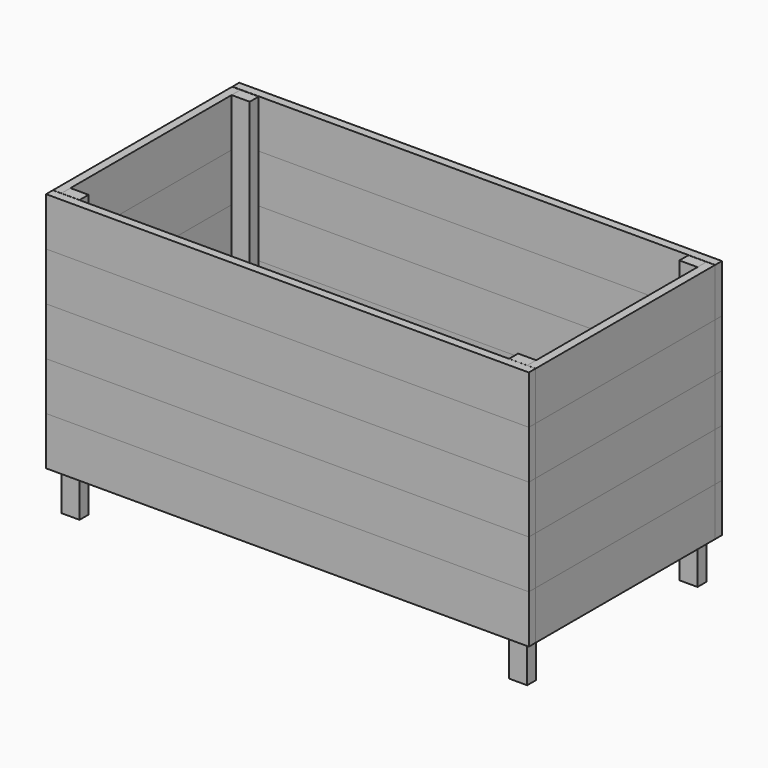
from build123d import *

# Parameters (mm, degrees)
F0_W      = 1200
F0_H      = 21
F1_DEPTH  = 120
F0_W_2    = 21
F0_H_2    = 556.7881069728
F0_H_3    = 557.1984168637
F22_W     = 45
F22_H     = 28
F23_DEPTH = 600
F24_DEPTH = 100
F26_START = 21
F25_W     = 44.6634292603
F25_H     = 500.1734569669
F26_DEPTH = 21
F25_W_2   = 44.8862910271
F25_H_2   = 500.9276699275
F27_W     = 1158
F27_H     = 120
F28_DEPTH = 21


with BuildPart() as f1:
    # F0 (on Top) → F1 (new body)
    with BuildSketch(Plane.XY):
        with Locations((0, -10.5)):
            Rectangle(F0_W, F0_H)
    extrude(amount=F1_DEPTH)


with BuildPart() as f1b:
    # F0 (on Top) → F1, piece 2 (new body)
    with BuildSketch(Plane.XY):
        with Locations((0, 568.5)):
            Rectangle(F0_W, F0_H)
    extrude(amount=F1_DEPTH)


with BuildPart() as f1c:
    # F0 (on Top) → F1, piece 3 (new body)
    with BuildSketch(Plane.XY):
        with Locations((-589.5, 278.8132924761)):
            Rectangle(F0_W_2, F0_H_2)
    extrude(amount=F1_DEPTH)


with BuildPart() as f1d:
    # F0 (on Top) → F1, piece 4 (new body)
    with BuildSketch(Plane.XY):
        with Locations((589.5, 278.7744940943)):
            Rectangle(F0_W_2, F0_H_3)
    extrude(amount=F1_DEPTH)


with BuildPart() as f2_1:
    # F2: copy of F1
    add(f1.part.moved(Location((0, 0, 120))))


with BuildPart() as f3_1:
    # F3: copy of F2_1
    add(f2_1.part.moved(Location((0, 0, 120))))


with BuildPart() as f4_1:
    # F4: copy of F3_1
    add(f3_1.part.moved(Location((0, 0, 120))))


with BuildPart() as f5_1:
    # F5: copy of F3_1
    add(f3_1.part.moved(Location((0, 0, 120))))


with BuildPart() as f8_1:
    # F8: copy of F3_1
    add(f3_1.part.moved(Location((0, 0, 120))))


with BuildPart() as f9_1:
    # F9: copy of F8_1
    add(f8_1.part.moved(Location((0, 0, 120))))


with BuildPart() as f10_1:
    # F10: copy of F1b
    add(f1b.part.moved(Location((0, 0, 120))))


with BuildPart() as f11_1:
    # F11: copy of F10_1
    add(f10_1.part.moved(Location((0, 0, 120))))


with BuildPart() as f12_1:
    # F12: copy of F11_1
    add(f11_1.part.moved(Location((0, 0, 120))))


with BuildPart() as f13_1:
    # F13: copy of F12_1
    add(f12_1.part.moved(Location((0, 0, 120))))


with BuildPart() as f14_1:
    # F14: copy of F1c
    add(f1c.part.moved(Location((0, 0, 120))))


with BuildPart() as f15_1:
    # F15: copy of F14_1
    add(f14_1.part.moved(Location((0, 0, 120))))


with BuildPart() as f16_1:
    # F16: copy of F15_1
    add(f15_1.part.moved(Location((0, 0, 120))))


with BuildPart() as f17_1:
    # F17: copy of F16_1
    add(f16_1.part.moved(Location((0, 0, 120))))


with BuildPart() as f18_1:
    # F18: copy of F1d
    add(f1d.part.moved(Location((0, 0, 120))))


with BuildPart() as f19_1:
    # F19: copy of F18_1
    add(f18_1.part.moved(Location((0, 0, 120))))


with BuildPart() as f20_1:
    # F20: copy of F19_1
    add(f19_1.part.moved(Location((0, 0, 120))))


with BuildPart() as f21_1:
    # F21: copy of F20_1
    add(f20_1.part.moved(Location((0, 0, 120))))


with BuildPart() as f23:
    # F22 (on Top) → F23 (new body)
    with BuildSketch(Plane.XY):
        with Locations((-556.5, 543.2073459625)):
            Rectangle(F22_W, F22_H)
    extrude(amount=F23_DEPTH)


with BuildPart() as f23b:
    # F22 (on Top) → F23, piece 2 (new body)
    with BuildSketch(Plane.XY):
        with Locations((556.5, 543.3737025261)):
            Rectangle(F22_W, F22_H)
    extrude(amount=F23_DEPTH)


with BuildPart() as f23c:
    # F22 (on Top) → F23, piece 3 (new body)
    with BuildSketch(Plane.XY):
        with Locations((-556.5, 14.4192389897)):
            Rectangle(F22_W, F22_H)
    extrude(amount=F23_DEPTH)


with BuildPart() as f23d:
    # F22 (on Top) → F23, piece 4 (new body)
    with BuildSketch(Plane.XY):
        with Locations((556.5, 14.1752856624)):
            Rectangle(F22_W, F22_H)
    extrude(amount=F23_DEPTH)


with BuildPart() as f24:
    # F22 (on Top) → F24 (new body)
    with BuildSketch(Plane.XY):
        with Locations((-556.5, 543.2073459625)):
            Rectangle(F22_W, F22_H)
    extrude(amount=-F24_DEPTH)


with BuildPart() as f24b:
    # F22 (on Top) → F24, piece 2 (new body)
    with BuildSketch(Plane.XY):
        with Locations((556.5, 543.3737025261)):
            Rectangle(F22_W, F22_H)
    extrude(amount=-F24_DEPTH)


with BuildPart() as f24c:
    # F22 (on Top) → F24, piece 3 (new body)
    with BuildSketch(Plane.XY):
        with Locations((-556.5, 14.4192389897)):
            Rectangle(F22_W, F22_H)
    extrude(amount=-F24_DEPTH)


with BuildPart() as f24d:
    # F22 (on Top) → F24, piece 4 (new body)
    with BuildSketch(Plane.XY):
        with Locations((556.5, 14.1752856624)):
            Rectangle(F22_W, F22_H)
    extrude(amount=-F24_DEPTH)


with BuildPart() as f26:
    # F25 (on Top) → F26 (new body)
    with BuildSketch(Plane.XY.offset(F26_START)):
        with Locations((-556.3582181931, 278.6495648324)):
            Rectangle(F25_W, F25_H)
    extrude(amount=F26_DEPTH)


with BuildPart() as f26b:
    # F25 (on Top) → F26, piece 2 (new body)
    with BuildSketch(Plane.XY.offset(F26_START)):
        with Locations((556.4052164555, 278.6214435473)):
            Rectangle(F25_W_2, F25_H_2)
    extrude(amount=F26_DEPTH)


with BuildPart() as f28:
    # F27 (on Top) → F28 (new body)
    with BuildSketch(Plane.XY):
        with Locations((0, 498)):
            Rectangle(F27_W, F27_H)
    extrude(amount=F28_DEPTH)


with BuildPart() as f29_1:
    # F29: copy of F28
    add(f28.part.moved(Location((0, -120, 0))))


with BuildPart() as f30_1:
    # F30: copy of F29_1
    add(f29_1.part.moved(Location((0, -120, 0))))


with BuildPart() as f31_1:
    # F31: copy of F30_1
    add(f30_1.part.moved(Location((0, -120, 0))))


solid = Compound([f1.part, f1b.part, f1c.part, f1d.part, f2_1.part, f3_1.part, f8_1.part, f9_1.part, f10_1.part, f11_1.part, f12_1.part, f13_1.part, f14_1.part, f15_1.part, f16_1.part, f17_1.part, f18_1.part, f19_1.part, f20_1.part, f21_1.part, f23.part, f23b.part, f23c.part, f23d.part, f24.part, f24b.part, f24c.part, f24d.part, f26.part, f26b.part, f28.part, f29_1.part, f30_1.part, f31_1.part])
